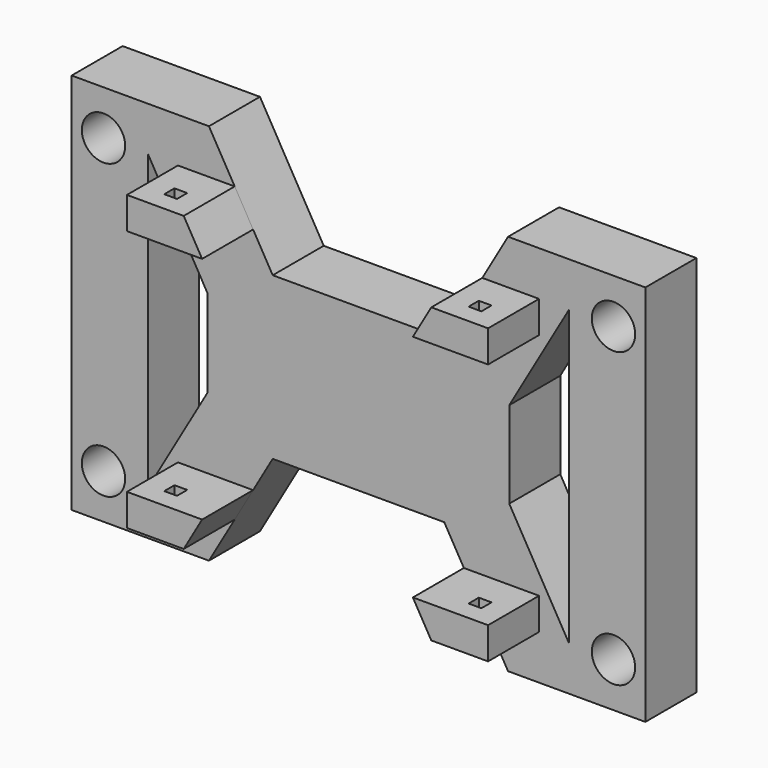
from build123d import *

# Parameters (mm, degrees)
SKETCH003_R  = 3.4
PAD001_DEPTH = 10
PAD002_DEPTH = 10
SKETCH005_W  = 2
SKETCH005_H  = 2
POCKET_DEPTH = 53.001


with BuildPart() as part:
    # Sketch003 → Pad001 (new body)
    with BuildSketch(Plane.XZ):
        Polygon((0, 60), (21.539201, 60), (31.540737, 42.676832), (58.459263, 42.676832), (68.460799, 60), (90, 60), (90, 0), (68.460799, 0), (58.459263, 17.323168), (31.540737, 17.323168), (21.539201, 0), (0, 0), align=None)
        with Locations((5, 53)):
            Circle(SKETCH003_R, mode=Mode.SUBTRACT)
        with Locations((5, 7)):
            Circle(SKETCH003_R, mode=Mode.SUBTRACT)
        with Locations((85, 7)):
            Circle(SKETCH003_R, mode=Mode.SUBTRACT)
        with Locations((85, 53)):
            Circle(SKETCH003_R, mode=Mode.SUBTRACT)
        Polygon((78, 53), (68.649322, 36.80415), (68.649322, 23.19585), (78, 7), align=None, mode=Mode.SUBTRACT)
        Polygon((12, 53), (12, 7), (21.350678, 23.19585), (21.350678, 36.80415), align=None, mode=Mode.SUBTRACT)
    extrude(amount=PAD001_DEPTH)

    # Sketch004 (on Face26 of Pad001) → Pad002 (join)
    with BuildSketch(Plane.XZ.offset(10)):
        Polygon((16.675339, 53), (25.580653, 53), (28.467405, 48), (16.675339, 48), align=None)
        Polygon((64.419347, 53), (73.324661, 53), (73.324661, 48), (61.532595, 48), align=None)
        Polygon((16.675339, 12), (16.675339, 7), (25.580653, 7), (28.467405, 12), align=None)
        Polygon((73.324661, 12), (61.532595, 12), (64.419347, 7), (73.324661, 7), align=None)
    extrude(amount=PAD002_DEPTH)

    # Sketch005 (on Face39 of Pad002) → Pocket (cut, through all)
    with BuildSketch(Plane(origin=(0, 0, 53), x_dir=(-1, 0, 0), z_dir=(0, 0, 1))):
        with Locations((-21.127996, 16)):
            Rectangle(SKETCH005_W, SKETCH005_H)
        with Locations((-68.872004, 16)):
            Rectangle(SKETCH005_W, SKETCH005_H)
    extrude(amount=-POCKET_DEPTH, mode=Mode.SUBTRACT)


solid = part.part
